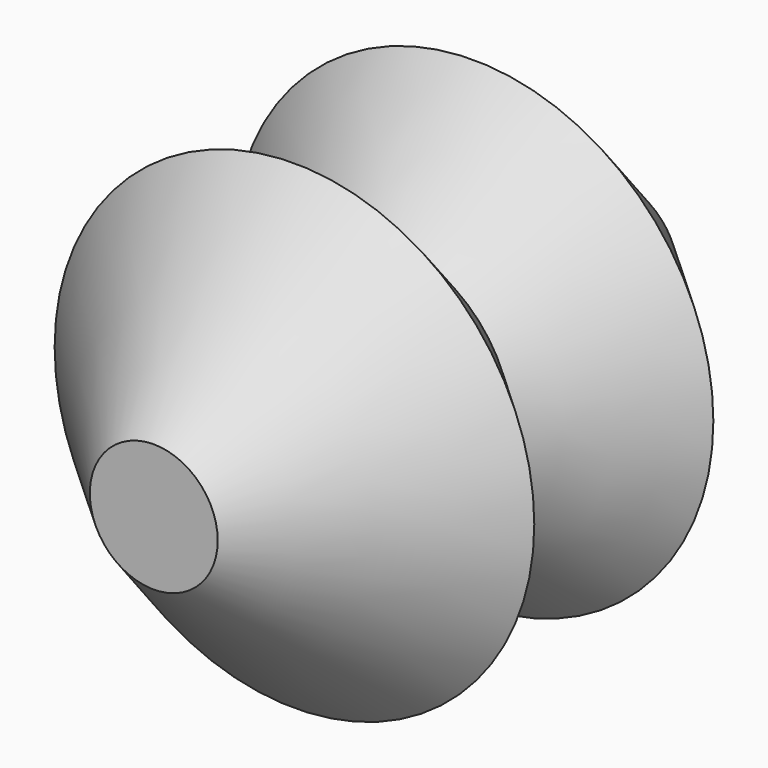
from build123d import *


with BuildPart() as f1:
    # F0 (on Top) → F1 (revolve)
    with BuildSketch(Plane.XY):
        Polygon((4, 0), (0, 0), (0, -36), (4, -36), (15, -25), (8.0195304944, -18), (15, -11), align=None)
        Polygon((4, -32), (4, -18.1), (11, -25), align=None, mode=Mode.SUBTRACT)
        Polygon((4, -17.9), (4, -4), (11, -11), align=None, mode=Mode.SUBTRACT)
        Polygon((11, -11), (4, -4), (4, -17.9), align=None)
        Polygon((11, -25), (4, -18.1), (4, -32), align=None)
    revolve(axis=Axis((0, -18, 0), (0, -1, 0)))


solid = f1.part
